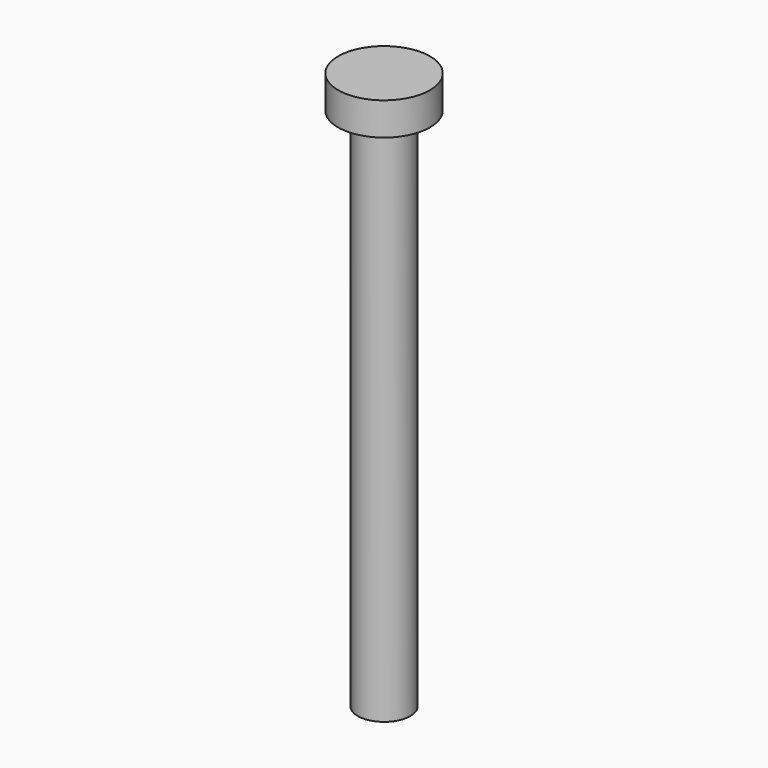
from build123d import *

# Parameters (mm, degrees)
SKETCH_R     = 4
PAD_DEPTH    = 80
SKETCH001_R  = 7
PAD001_DEPTH = 5


with BuildPart() as part:
    # Sketch → Pad (new body)
    with BuildSketch(Plane.XY):
        Circle(SKETCH_R)
    extrude(amount=PAD_DEPTH)

    # Sketch001 (on Face3 of Pad) → Pad001 (join)
    with BuildSketch(Plane.XY.offset(80)):
        Circle(SKETCH001_R)
    extrude(amount=PAD001_DEPTH)


solid = part.part
